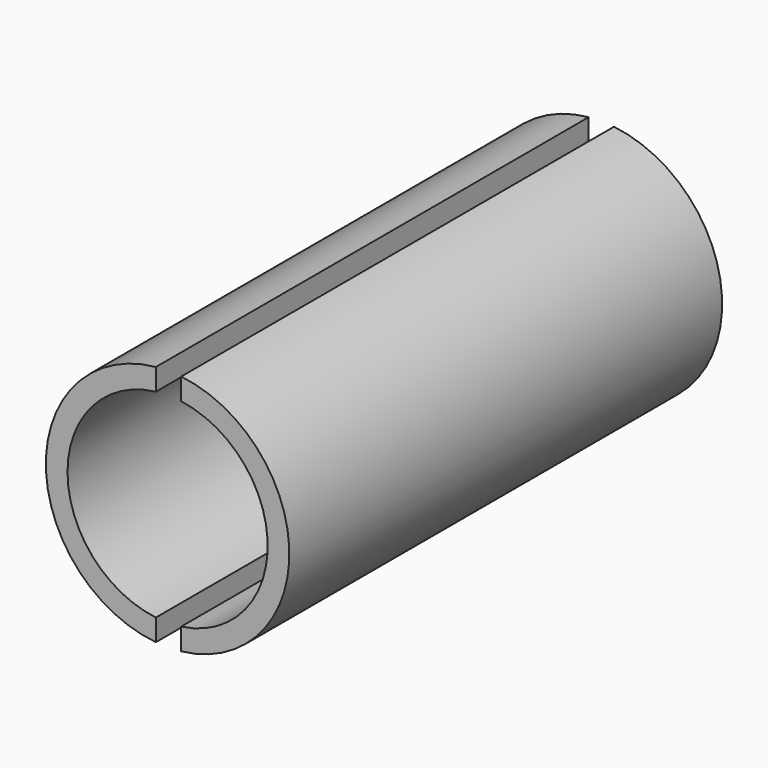
from build123d import *

# Parameters (mm, degrees)
F0_R     = 28.575
F1_DEPTH = 127
F2_T     = -5.08
F3_W     = 3.191248
F3_H     = 113.683276
F4_DEPTH = 609.6


with BuildPart() as f1:
    # F0 (on Front) → F1 (new body)
    with BuildSketch(Plane.XZ):
        Circle(F0_R)
    extrude(amount=F1_DEPTH)

    # F2
    f2_openings = [f1.faces().sort_by_distance(p)[0] for p in [
        (0, -127, 0),
    ]]
    offset(amount=F2_T, openings=f2_openings)

    # F3 (on Front) → F4 (cut)
    with BuildSketch(Plane.XZ):
        with Locations((1.595624, 2.158541)):
            Rectangle(F3_W, F3_H)
        Polygon((0, -54.683097), (0, 59.000179), (-2.749708, 59.000179), (-2.749708, -54.487471), align=None)
    extrude(amount=F4_DEPTH, mode=Mode.SUBTRACT)


solid = f1.part
